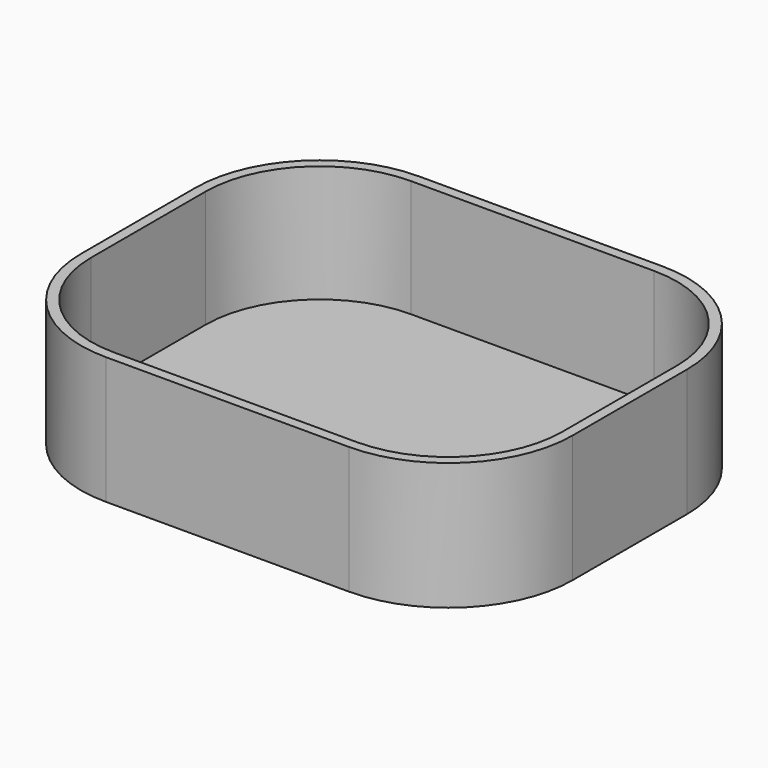
from build123d import *

# Parameters (mm, degrees)
F0_W     = 96.488521
F0_H     = 76.829273
F1_DEPTH = 25
F2_R     = 24.383557
F3_T     = -2


with BuildPart() as f1:
    # F0 (on Top) → F1 (new body)
    with BuildSketch(Plane.XY):
        with Locations((-1.468796, -3.276543)):
            Rectangle(F0_W, F0_H)
    extrude(amount=F1_DEPTH)

    # F2
    f2_edges = [f1.edges().sort_by_distance(p)[0] for p in [
        (46.775464, -41.69118, 12.5),
        (46.775464, 35.138093, 12.5),
        (-49.713057, 35.138093, 12.5),
        (-49.713057, -41.69118, 12.5),
    ]]
    fillet(f2_edges, radius=F2_R)

    # F3
    f3_openings = [f1.faces().sort_by_distance(p)[0] for p in [
        (-1.468796, -3.276544, 25),
    ]]
    offset(amount=F3_T, openings=f3_openings)


solid = f1.part
